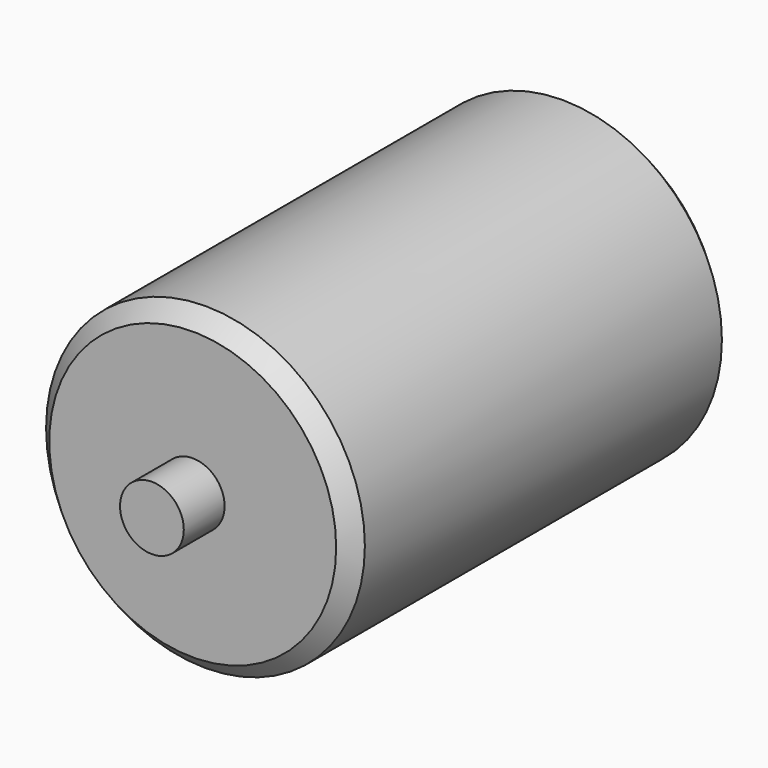
from build123d import *

# Parameters (mm, degrees)
F0_R      = 50
F1_DEPTH  = 150
F2_SIZE2  = 5
F2_SIZE   = 5
F3_R      = 10
F4_DEPTH  = 16
F5_R      = 10
F6_DEPTH  = 16
F6_FACE_R = 10
F7_DEPTH  = 16


with BuildPart() as f1:
    # F0 (on Front) → F1 (new body)
    with BuildSketch(Plane.XZ):
        Circle(F0_R)
    extrude(amount=F1_DEPTH)

    # F2
    f2_edges = [f1.edges().sort_by_distance(p)[0] for p in [
        (50, -75, 0),
        (-50, 0, 0),
        (-50, -150, 0),
    ]]
    chamfer(f2_edges, length=F2_SIZE, length2=F2_SIZE2)

    # F3 (on face) → F4 (join)
    with BuildSketch(Plane(origin=(0, 0, 0), x_dir=(-1, 0, 0), z_dir=(0, 1, 0))):
        Circle(F3_R)
    extrude(amount=F4_DEPTH)

    # F5 (on face) → F6 (join)
    with BuildSketch(Plane.XZ.offset(150)):
        Circle(F5_R)
    extrude(amount=F6_DEPTH)


with BuildPart() as f7:
    # F6_face (on face) → F7 (new body)
    with BuildSketch(Plane.XZ.offset(166)):
        Circle(F6_FACE_R)
    extrude(amount=-F7_DEPTH)


solid = Compound([f1.part, f7.part])
